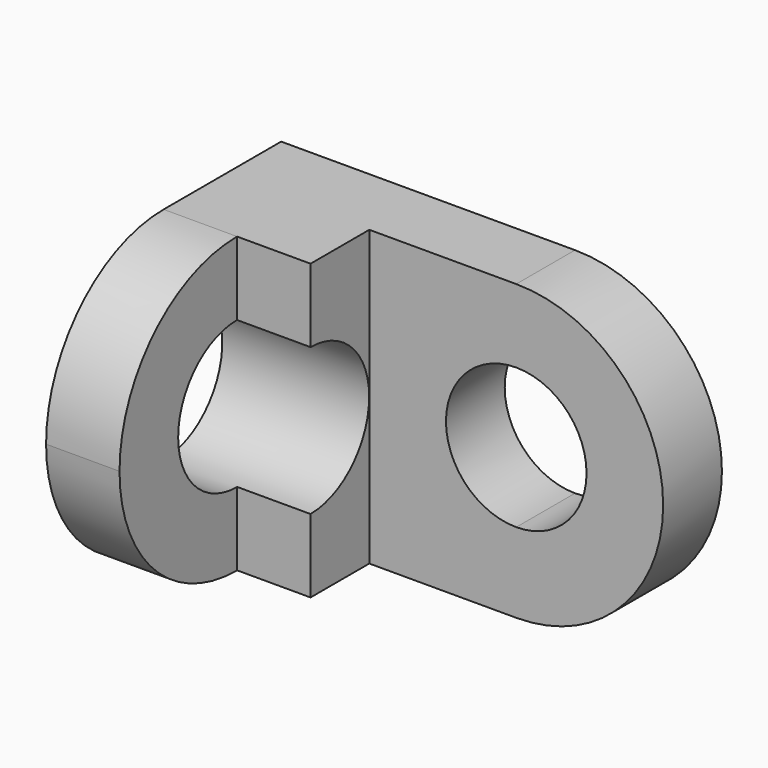
from build123d import *

# Parameters (mm, degrees)
F1_DEPTH  = 10
F2_W      = 20
F2_H      = 40
F3_DEPTH  = 10
F4_W      = 10
F4_H      = 40
F5_DEPTH  = 20
F7_R      = 10
F8_DEPTH  = 25
F9_DEPTH  = 25
F11_DEPTH = 25


with BuildPart() as f1:
    # F0 (on Front) → F1 (new body)
    with BuildSketch(Plane.XZ):
        with BuildLine():
            Line((20, 20), (-20, 20))
            Line((-20, 20), (-20, -20))
            Line((-20, -20), (20, -20))
            Line((20, -20), (20, -10))
            Line((20, -10), (20, -9.1353991624))
            ThreePointArc((20, -9.1353991624), (10.4353929538, 0.4317086423), (20, 9.9988164469))
            Line((20, 9.9988164469), (20, 10))
            Line((20, 10), (20, 20))
        make_face()
        with BuildLine():
            ThreePointArc((20, -20), (40, 0), (20, 20))
            Line((20, 20), (20, 10))
            Line((20, 10), (20, 9.9988164469))
            ThreePointArc((20, 9.9988164469), (26.7665837966, 7.1975598879), (29.569609217, 0.4317086423))
            ThreePointArc((29.569609217, 0.4317086423), (26.7665837966, -6.3341426033), (20, -9.1353991624))
            Line((20, -9.1353991624), (20, -10))
            Line((20, -10), (20, -20))
        make_face()
    extrude(amount=F1_DEPTH)

    # F2 (on face) → F3 (join)
    with BuildSketch(Plane.XZ.offset(10)):
        with Locations((-10, 0)):
            Rectangle(F2_W, F2_H)
    extrude(amount=F3_DEPTH)

    # F4 (on face) → F5 (join)
    with BuildSketch(Plane.XZ.offset(20)):
        with Locations((-15, 0)):
            Rectangle(F4_W, F4_H)
    extrude(amount=F5_DEPTH)

    # F7 (on face) → F8 (cut)
    with BuildSketch(Plane(origin=(-20, 0, 0), x_dir=(0, -1, 0), z_dir=(-1, 0, 0))):
        with Locations((20.0242427885, 0)):
            Circle(F7_R)
    extrude(amount=-F8_DEPTH, mode=Mode.SUBTRACT)

    # F6 (on face) → F9 (cut)
    with BuildSketch(Plane.YZ.offset(-10)):
        with BuildLine():
            ThreePointArc((-40, 1.832e-07), (-34.142135559, 14.1421356885), (-20, 20))
            Line((-20, 20), (-40, 20))
            Line((-40, 20), (-40, 1.832e-07))
        make_face()
    extrude(amount=-F9_DEPTH, mode=Mode.SUBTRACT)

    # F10 (on face) → F11 (cut)
    with BuildSketch(Plane.YZ.offset(-10)):
        with BuildLine():
            ThreePointArc((-20, -20), (-34.1421356885, -14.142135559), (-40, 1.832e-07))
            Line((-40, 1.832e-07), (-40, -20))
            Line((-40, -20), (-20, -20))
        make_face()
    extrude(amount=-F11_DEPTH, mode=Mode.SUBTRACT)


solid = f1.part
